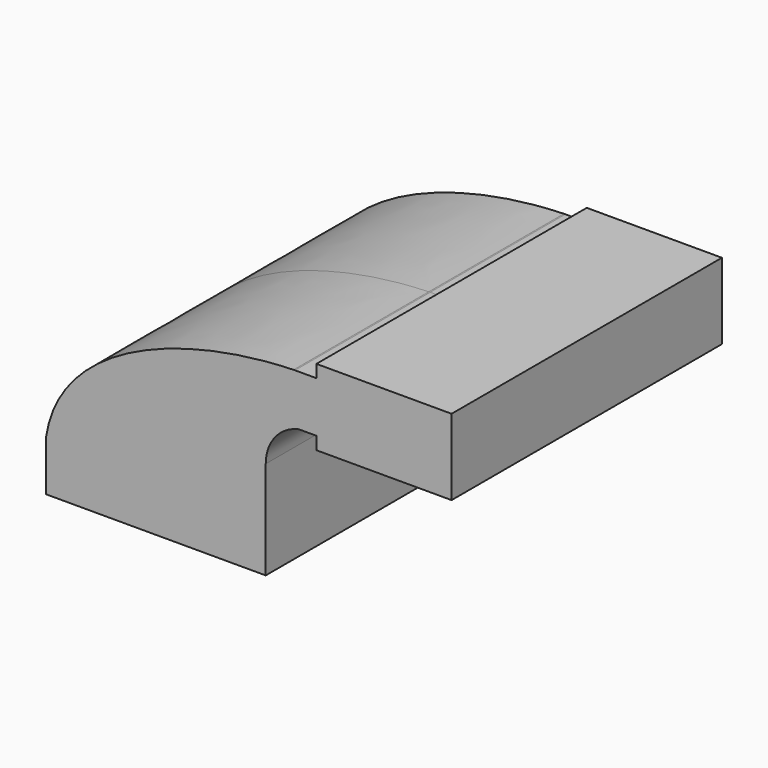
from build123d import *

# Parameters (mm, degrees)
F0_W     = 25.3558125973
F0_H     = 19.05
F1_DEPTH = 63.5


with BuildPart() as f1:
    # F0 (on Front) → F1 (new body, symmetric)
    with BuildSketch(Plane.XZ):
        with BuildLine():
            add(Edge.make_bspline(
                [(-41.275, 9.525), (-35.7851044723, 45.3244073821), (12.6259092466, 60.7791905255), (51.7188934867, 61.909732843)],
                knots=[0, 0, 0, 0, 106.3505390395, 106.3505390395, 106.3505390395, 106.3505390395], degree=3))
            Line((-41.275, 9.525), (22.225, 9.525))
            Line((22.225, 9.525), (22.225, 27.4096066543))
            ThreePointArc((22.225, 27.4096066543), (30.6034651981, 50.1040358168), (51.7188934867, 61.909732843))
        make_face()
        Polygon((22.225, 9.525), (-41.275, 9.525), (-41.275, -9.525), (41.275, -9.525), (41.275, 9.525), align=None)
        with BuildLine():
            Line((22.225, 27.4096066543), (22.225, 9.525))
            Line((22.225, 9.525), (41.275, 9.525))
            Line((41.275, 9.525), (41.275, 27.4096066543))
            ThreePointArc((41.275, 27.4096066543), (44.7225989891, 37.2876291848), (53.567954849, 42.8752))
            Line((53.567954849, 42.8752), (60.325, 42.8752))
            Line((60.325, 42.8752), (60.325, 61.9252))
            Line((60.325, 61.9252), (52.2881304538, 61.9252))
            add(Edge.make_bspline(
                [(51.7188934867, 61.909732843), (51.9088611725, 61.9152265783), (52.0986088263, 61.9203820671), (52.2881304538, 61.9252)],
                knots=[106.3505390395, 106.3505390395, 106.3505390395, 106.3505390395, 106.8673367765, 106.8673367765, 106.8673367765, 106.8673367765], degree=3))
            ThreePointArc((51.7188934867, 61.909732843), (30.6034651981, 50.1040358168), (22.225, 27.4096066543))
        make_face()
        with BuildLine():
            ThreePointArc((51.8180734259, 61.9252), (51.7684778995, 61.9175020535), (51.7188934867, 61.909732843))
            add(Edge.make_bspline(
                [(51.7188934867, 61.909732843), (51.9088611725, 61.9152265783), (52.0986088263, 61.9203820671), (52.2881304538, 61.9252)],
                knots=[106.3505390395, 106.3505390395, 106.3505390395, 106.3505390395, 106.8673367765, 106.8673367765, 106.8673367765, 106.8673367765], degree=3))
            Line((52.2881304538, 61.9252), (51.8180734259, 61.9252))
        make_face()
        with BuildLine():
            add(Edge.make_bspline(
                [(52.2881304538, 61.9252), (55.0200364706, 61.994649277), (57.7049776323, 61.993959567), (60.325, 61.9252)],
                knots=[106.8673367765, 106.8673367765, 106.8673367765, 106.8673367765, 114.3168446032, 114.3168446032, 114.3168446032, 114.3168446032], degree=3))
            Line((52.2881304538, 61.9252), (60.325, 61.9252))
        make_face()
        with Locations((73.0029062986, 52.4002)):
            Rectangle(F0_W, F0_H)
        Polygon((60.325, 66.675), (60.325, 61.9252), (85.6808125973, 61.9252), (85.6808125973, 42.8752), (60.325, 42.8752), (60.325, 38.1), (111.125, 38.1), (111.125, 66.675), align=None)
    extrude(amount=F1_DEPTH, both=True)


solid = f1.part
